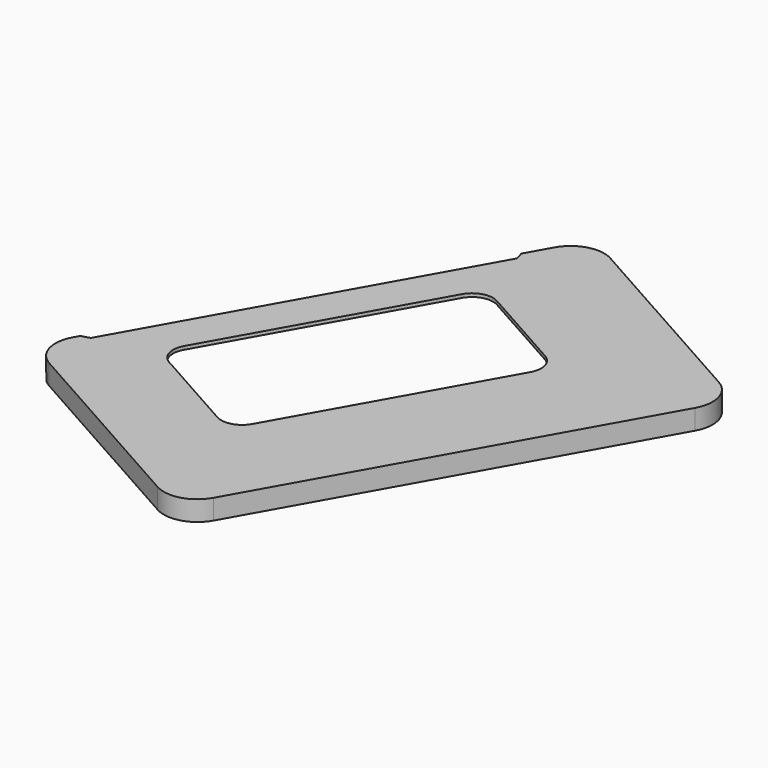
from build123d import *

# Parameters (mm, degrees)
PAD_START        = 1.6
PAD_DEPTH        = 4.8
POCKET001_START  = 0.8
POCKET001_DEPTH  = 0.8
POCKET_START     = 1.6
POCKET_DEPTH     = 0.8
POCKET002_START  = 2.4
POCKET002_DEPTH  = 0.8
POCKET003_START  = 3.2
POCKET003_DEPTH  = 0.8
POCKET004_START  = 4
POCKET004_DEPTH  = 0.8
POCKET005_START  = 4.8
POCKET005_DEPTH  = 0.8
POCKET006_DEPTH  = 5.6
REVOLUTION_ANGLE = -33.3310263678
PAD001_START     = 3.2
PAD001_DEPTH     = 3.2
GROOVE_ANGLE     = -64.1620527356
POCKET007_DEPTH  = 6.4010001


with BuildPart() as part:
    # Sketch001 → Pad (new body)
    with BuildSketch(Plane.XY.offset(PAD_START)):
        with BuildLine():
            ThreePointArc((45.8819040298, -32.6626833344), (51.9613737347, -33.3909553404), (56.7751740631, -29.6070871601))
            Line((104.2910718333, 54.957914224), (56.7751740631, -29.6070871601))
            ThreePointArc((104.2910718333, 54.957914224), (105.0193438394, 61.037383929), (101.235475659, 65.8511842574))
            Line((54.1580522081, 92.3033335315), (101.235475659, 65.8511842574))
            ThreePointArc((54.1580522081, 92.3033335315), (48.0785825031, 93.0316055375), (43.2647821747, 89.2477373572))
            Line((-4.2511155955, 4.6827359731), (43.2647821747, 89.2477373572))
            ThreePointArc((-4.2511155955, 4.6827359731), (-4.9793876015, -1.3967337319), (-1.1955194212, -6.2105340603))
            Line((-1.1955194212, -6.2105340603), (45.8819040298, -32.6626833344))
        make_face()
    extrude(amount=PAD_DEPTH)

    # Sketch003 → Pocket001 (cut)
    with BuildSketch(Plane.XY.offset(POCKET001_START)):
        with BuildLine():
            Line((85.8148184761, 52.4925416598), (46.7244201043, -17.077428551))
            ThreePointArc((42.6394438418, -18.2232771164), (44.9192449812, -18.4963791186), (46.7244201043, -17.077428551))
            Line((42.6394438418, -18.2232771164), (2.449271782, 4.3590214197))
            ThreePointArc((2.449271782, 4.3590214197), (1.2658862829, 4.8370995358), (1.76628e-05, 5))
            Line((1.76628e-05, 5), (-15, 5))
            Line((-15, 5), (-15, 90.8))
            Line((-15, 90.8), (46.1, 90.8))
            ThreePointArc((47.494620273, 90.4561314527), (46.8181941387, 90.7127645252), (46.1, 90.8))
            ThreePointArc((85.7163600404, 55.5945707213), (68.8485542562, 75.4846159763), (47.494620273, 90.4561314527))
            ThreePointArc((85.8148184761, 52.4925416598), (86.1978960606, 54.0572776131), (85.7163600404, 55.5945707213))
        make_face()
    extrude(amount=POCKET001_DEPTH, mode=Mode.SUBTRACT)

    # Sketch009 → Pocket (cut)
    with BuildSketch(Plane.XY.offset(POCKET_START)):
        with BuildLine():
            Line((85.8148184761, 52.4925416598), (46.7244201043, -17.077428551))
            ThreePointArc((42.6394438418, -18.2232771164), (44.9192449812, -18.4963791186), (46.7244201043, -17.077428551))
            Line((42.6394438418, -18.2232771164), (2.4492516427, 4.3590327357))
            ThreePointArc((2.4492516427, 4.3590327357), (1.5117225952, 4.765993579), (0.5110290706, 4.9738163707))
            Line((-16.3999465896, 6.7113152108), (0.5110290706, 4.9738163707))
            Line((-7.6306877374, 92.0620041312), (-16.3999465896, 6.7113152108))
            Line((55.1388748602, 85.6128172597), (-7.6306877374, 92.0620041312))
            ThreePointArc((56.4910465243, 85.1282111574), (55.8443920404, 85.4526349965), (55.1388748602, 85.6128172597))
            ThreePointArc((85.7163600404, 55.5945707213), (72.6209033256, 71.8627516343), (56.4910465243, 85.1282111574))
            ThreePointArc((85.8148184761, 52.4925416598), (86.1978960606, 54.0572776131), (85.7163600404, 55.5945707213))
        make_face()
    extrude(amount=POCKET_DEPTH, mode=Mode.SUBTRACT)

    # Sketch014 → Pocket002 (cut)
    with BuildSketch(Plane.XY.offset(POCKET002_START)):
        with BuildLine():
            Line((85.8148184761, 52.4925416598), (46.7244201043, -17.077428551))
            ThreePointArc((42.6394438418, -18.2232771164), (44.9192449812, -18.4963791186), (46.7244201043, -17.077428551))
            Line((42.6394438418, -18.2232771164), (2.4492532756, 4.3590318182))
            ThreePointArc((2.4492532756, 4.3590318182), (1.7536186695, 4.6823948533), (1.016705903, 4.8955397156))
            Line((-15.62812913, 8.3523397857), (1.016705903, 4.8955397156))
            Line((1.8185441649, 92.3598013051), (-15.62812913, 8.3523397857))
            Line((63.6002553756, 79.5289728096), (1.8185441649, 92.3598013051))
            ThreePointArc((64.8958165262, 78.9087046508), (64.2857063971, 79.2975214192), (63.6002553756, 79.5289728096))
            ThreePointArc((85.7163600404, 55.5945707213), (76.2029798811, 68.0526011958), (64.8958165262, 78.9087046508))
            ThreePointArc((85.8148184761, 52.4925416598), (86.1978960606, 54.0572776131), (85.7163600404, 55.5945707213))
        make_face()
    extrude(amount=POCKET002_DEPTH, mode=Mode.SUBTRACT)

    # Sketch015 → Pocket003 (cut)
    with BuildSketch(Plane.XY.offset(POCKET003_START)):
        with BuildLine():
            Line((85.8148184761, 52.4925416598), (46.7244201043, -17.077428551))
            ThreePointArc((42.6394438418, -18.2232771164), (44.9192449812, -18.4963791186), (46.7244201043, -17.077428551))
            Line((42.6394438418, -18.2232771164), (2.4492516079, 4.3590327553))
            ThreePointArc((2.4492516078, 4.3590327553), (1.9909183539, 4.5865285465), (1.5117343151, 4.7659898616))
            Line((-14.6926312142, 9.9058865329), (1.5117343151, 4.7659898616))
            Line((11.2487296327, 91.6902725574), (-14.6926312142, 9.9058865329))
            Line((71.3955216857, 72.6121855009), (11.2487296327, 91.6902725574))
            ThreePointArc((72.6209033256, 71.8627516343), (72.0537275104, 72.3118890783), (71.3955216857, 72.6121855009))
            ThreePointArc((85.7163600404, 55.5945707213), (79.5853985987, 64.0641475566), (72.6209033256, 71.8627516343))
            ThreePointArc((85.8148184761, 52.4925416598), (86.1978960606, 54.0572776131), (85.7163600404, 55.5945707213))
        make_face()
    extrude(amount=POCKET003_DEPTH, mode=Mode.SUBTRACT)

    # Sketch016 → Pocket004 (cut)
    with BuildSketch(Plane.XY.offset(POCKET004_START)):
        with BuildLine():
            Line((85.8148184761, 52.4925416598), (46.7244201043, -17.077428551))
            ThreePointArc((42.6394438418, -18.2232771164), (44.9192449812, -18.4963791186), (46.7244201043, -17.077428551))
            Line((42.6394438418, -18.2232771164), (2.4492564905, 4.3590300118))
            ThreePointArc((2.4492564905, 4.3590300118), (2.2230050788, 4.4786435915), (1.9909296508, 4.5865236427))
            Line((-13.6032507345, 11.3556844555), (1.9909296508, 4.5865236427))
            Line((20.5611020736, 90.0604301651), (-13.6032507345, 11.3556844555))
            Line((78.4430304451, 64.9348979717), (20.5611020736, 90.0604301651))
            ThreePointArc((79.5853985987, 64.0641475566), (79.0670973859, 64.568901657), (78.4430304451, 64.9348979717))
            ThreePointArc((85.7163600404, 55.5945707213), (82.7592972737, 59.9078407809), (79.5853985987, 64.0641475566))
            ThreePointArc((85.8148184761, 52.4925416598), (86.1978960606, 54.0572776131), (85.7163600404, 55.5945707213))
        make_face()
    extrude(amount=POCKET004_DEPTH, mode=Mode.SUBTRACT)

    # Sketch017 → Pocket005 (cut)
    with BuildSketch(Plane.XY.offset(POCKET005_START)):
        with BuildLine():
            Line((85.8148184761, 52.4925416598), (46.7244201043, -17.077428551))
            ThreePointArc((42.6394438418, -18.2232771164), (44.9192449812, -18.4963791186), (46.7244201043, -17.077428551))
            Line((42.6394438418, -18.2232771164), (2.4492568083, 4.3590298333))
            ThreePointArc((2.4492568083, 4.3590298333), (2.4454600453, 4.3611609884), (2.441661428, 4.3632888365))
            Line((-12.3935206161, 12.6649376918), (2.441661428, 4.3632888365))
            Line((29.5053894888, 87.5389741265), (-12.3935206161, 12.6649376918))
            Line((84.5700946057, 56.7252069048), (29.5053894888, 87.5389741265))
            ThreePointArc((85.6191987057, 55.7440892406), (85.1542324005, 56.2983628048), (84.5700946057, 56.7252069048))
            ThreePointArc((85.7163600404, 55.5945707213), (85.6678119929, 55.6693511783), (85.6191987057, 55.7440892406))
            ThreePointArc((85.8148184761, 52.4925416598), (86.1978960606, 54.0572776131), (85.7163600404, 55.5945707213))
        make_face()
    extrude(amount=POCKET005_DEPTH, mode=Mode.SUBTRACT)

    # Sketch018 → Pocket006 (cut)
    with BuildSketch(Plane.XY):
        with BuildLine():
            ThreePointArc((52.3276279499, -31.3499498108), (58.1143651362, 18.5397023929), (24.5054081771, 55.8613011849))
            Line((-4.2511155955, 4.6827359731), (24.5054081771, 55.8613011849))
            ThreePointArc((-4.2511155955, 4.6827359731), (-5.1902437064, -0.4089389248), (-2.8146883087, -5.0093575391))
            Line((-2.8146883087, -5.0093575391), (-2.057389388, -3.6615773795))
            Line((-2.057389388, -3.6615773795), (46.7636423389, -31.093435886))
            ThreePointArc((46.7636423389, -31.093435886), (49.5152084302, -31.8816718354), (52.3276279499, -31.3499498108))
        make_face()
    extrude(amount=POCKET006_DEPTH, mode=Mode.SUBTRACT)

    # Sketch011 → Revolution (revolve)
    with BuildSketch(Plane.XZ):
        with BuildLine():
            Line((59.8720729309, 3.7765328297), (58.6739969226, 2.9376309774))
            ThreePointArc((58.6739969226, 2.9376309774), (58.5799666036, 2.8304099481), (58.5460698535, 2.6918853641))
            Line((58.5460698535, 2.6918853641), (58.5460698535, 1.972319548))
            ThreePointArc((58.5460698535, 1.972319548), (58.7312648238, 1.6951556882), (59.0582018879, 1.7601875136))
            Line((59.0582018879, 1.7601875136), (59.4878679656, 2.1898535914))
            ThreePointArc((61, 1.5635079946), (60.4531893567, 2.3818679545), (59.4878679656, 2.1898535914))
            Line((61, 4.8265993913), (61, 1.5635079946))
            ThreePointArc((60.7867882182, 4.4170233692), (60.9435054166, 4.5957250847), (61, 4.8265993913))
            Line((60.7867882182, 4.4170233692), (59.8720729309, 3.7765328297))
        make_face()
    revolve(axis=Axis((0, 0, 0), (0, 0, 1)), revolution_arc=REVOLUTION_ANGLE)

    # Sketch010 → Pad001 (join)
    with BuildSketch(Plane.XY.offset(PAD001_START)):
        with BuildLine():
            Line((11.8874092339, -13.5616496558), (2.6477551447, 1.612263221))
            ThreePointArc((2.6477551447, 1.612263221), (0.0990511985, 3.098417154), (-2.5393713373, 1.7780869527))
            Line((-2.5393713373, 1.7780869527), (-4.9149343536, -1.614568634))
            ThreePointArc((-4.9149343536, -1.614568634), (-3.4953881354, -4.2687642788), (-1.1955194212, -6.2105340603))
            Line((11.8874092339, -13.5616496558), (-1.1955194212, -6.2105340603))
        make_face()
    extrude(amount=PAD001_DEPTH)

    # Sketch012 → Groove (revolve, cut)
    with BuildSketch(Plane.YZ):
        with BuildLine():
            Line((106.0928932188, 5.6), (103.9071067812, 5.6))
            ThreePointArc((103.9071067812, 5.6), (103.4451670149, 5.2913417162), (103.5535533906, 4.7464466094))
            Line((103.5535533906, 4.7464466094), (103.8535533906, 4.4464466094))
            ThreePointArc((104, 4.0928932188), (103.9619397663, 4.284234935), (103.8535533906, 4.4464466094))
            Line((104, 4.0928932188), (104, 2.1))
            ThreePointArc((103.5, 1.6), (103.8535533906, 1.7464466094), (104, 2.1))
            Line((103.5, 1.6), (106.5, 1.6))
            ThreePointArc((106, 2.1), (106.1464466094, 1.7464466094), (106.5, 1.6))
            Line((106, 2.1), (106, 4.0928932188))
            ThreePointArc((106.1464466094, 4.4464466094), (106.0380602337, 4.284234935), (106, 4.0928932188))
            Line((106.1464466094, 4.4464466094), (106.4464466094, 4.7464466094))
            ThreePointArc((106.4464466094, 4.7464466094), (106.5548329851, 5.2913417162), (106.0928932188, 5.6))
        make_face()
        with BuildLine():
            Line((101.33, 2.1), (101.33, 4.0928932188))
            ThreePointArc((101.4764466094, 4.4464466094), (101.3680602337, 4.284234935), (101.33, 4.0928932188))
            Line((101.4764466094, 4.4464466094), (101.7764466094, 4.7464466094))
            ThreePointArc((101.7764466094, 4.7464466094), (101.8848329851, 5.2913417162), (101.4228932188, 5.6))
            Line((101.4228932188, 5.6), (99.2371067812, 5.6))
            ThreePointArc((99.2371067812, 5.6), (98.7751670149, 5.2913417162), (98.8835533906, 4.7464466094))
            Line((98.8835533906, 4.7464466094), (99.1835533906, 4.4464466094))
            ThreePointArc((99.33, 4.0928932188), (99.2919397663, 4.284234935), (99.1835533906, 4.4464466094))
            Line((99.33, 4.0928932188), (99.33, 2.1))
            ThreePointArc((98.83, 1.6), (99.1835533906, 1.7464466094), (99.33, 2.1))
            Line((98.83, 1.6), (101.83, 1.6))
            ThreePointArc((101.33, 2.1), (101.4764466094, 1.7464466094), (101.83, 1.6))
        make_face()
    revolve(axis=Axis((0, 0, 0), (0, 0, 1)), revolution_arc=GROOVE_ANGLE, mode=Mode.SUBTRACT)

    # Sketch019 → Pocket007 (cut, through all)
    with BuildSketch(Plane.XY):
        Polygon((39.9827562463, 83.4066496327), (-3.5163336712, 5.9904421801), (-1.47384554, 6.5633664627), (40.5556805289, 81.3641615015), align=None)
        with BuildLine():
            ThreePointArc((14.1507177589, 14.8751365341), (13.6955477552, 11.0754679685), (16.0604653679, 8.0668427632))
            Line((36.9837646794, -3.6896680253), (16.0604653679, 8.0668427632))
            ThreePointArc((36.9837646794, -3.6896680253), (40.783433245, -4.1448380291), (43.7920584503, -1.7799204163))
            Line((71.2239169568, 47.0411113106), (43.7920584503, -1.7799204163))
            ThreePointArc((71.2239169568, 47.0411113106), (71.6790869606, 50.8407798762), (69.3141693478, 53.8494050814))
            Line((48.3908700363, 65.6059158699), (69.3141693478, 53.8494050814))
            ThreePointArc((48.3908700363, 65.6059158699), (44.5912014707, 66.0610858737), (41.5825762655, 63.696168261))
            Line((14.1507177589, 14.8751365341), (41.5825762655, 63.696168261))
        make_face()
    extrude(amount=POCKET007_DEPTH, mode=Mode.SUBTRACT)

    # Sketch021 → Revolution001 (revolve)
    with BuildSketch(Plane.YZ):
        with BuildLine():
            Line((0, 0), (0, 6.4))
            Line((0, 6.4), (3, 6.4))
            Line((3, 6.4), (3, 3.2))
            Line((3, 3.2), (2.1, 3.2))
            ThreePointArc((2.1, 3.2), (1.9585786438, 3.1414213562), (1.9, 3))
            Line((1.9, 3), (1.9, 1.8))
            Line((1.9, 1.8), (2.1, 1.8))
            Line((2.1, 1.8), (2.1, 1.2))
            Line((2.1, 1.2), (1.7, 0))
            Line((1.7, 0), (0, 0))
        make_face()
    revolve(axis=Axis((0, 0, 0), (0, 0, 1)))


solid = part.part
